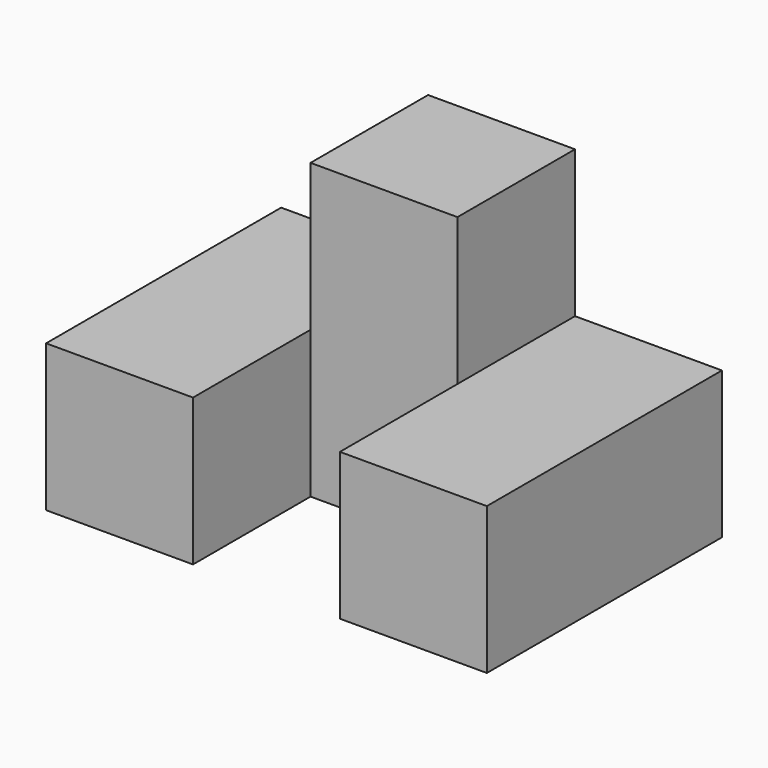
from build123d import *

# Parameters (mm, degrees)
F0_W     = 19.05
F0_H     = 19.05
F1_DEPTH = 38.1
F2_DEPTH = 19.05


with BuildPart() as f1:
    # F0 (on Front) → F1 (new body)
    with BuildSketch(Plane.XZ):
        with Locations((-17.78868, -28.575)):
            Rectangle(F0_W, F0_H)
        with Locations((20.31132, -28.575)):
            Rectangle(F0_W, F0_H)
    extrude(amount=F1_DEPTH)


with BuildPart() as f2:
    # F0 (on Front) → F2 (new body)
    with BuildSketch(Plane.XZ):
        with Locations((1.26132, -28.575)):
            Rectangle(F0_W, F0_H)
        with Locations((1.26132, -9.525)):
            Rectangle(F0_W, F0_H)
    extrude(amount=F2_DEPTH)


solid = Compound([f1.part, f2.part])
